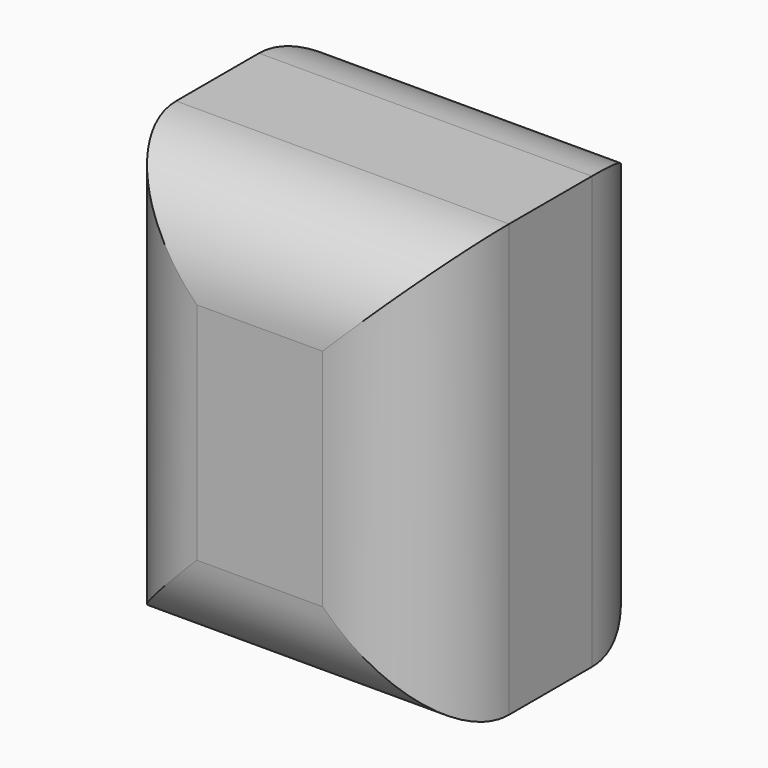
from build123d import *

# Parameters (mm, degrees)
F0_W     = 40.822277
F0_H     = 52.973367
F1_DEPTH = 19.05
F2_R     = 12.7


with BuildPart() as f1:
    # F0 (on Front) → F1 (new body, symmetric)
    with BuildSketch(Plane.XZ):
        with Locations((38.16014, 40.368375)):
            Rectangle(F0_W, F0_H)
    extrude(amount=F1_DEPTH, both=True)

    # F2
    f2_edges = [f1.edges().sort_by_distance(p)[0] for p in [
        (17.749002, 19.05, 40.368374),
        (38.160141, 19.05, 13.881691),
        (58.571279, 19.05, 40.368374),
        (38.160141, 19.05, 66.855058),
        (17.749002, -19.05, 40.368374),
        (38.160141, -19.05, 13.881691),
        (58.571279, -19.05, 40.368374),
        (38.160141, -19.05, 66.855058),
    ]]
    fillet(f2_edges, radius=F2_R)


solid = f1.part
